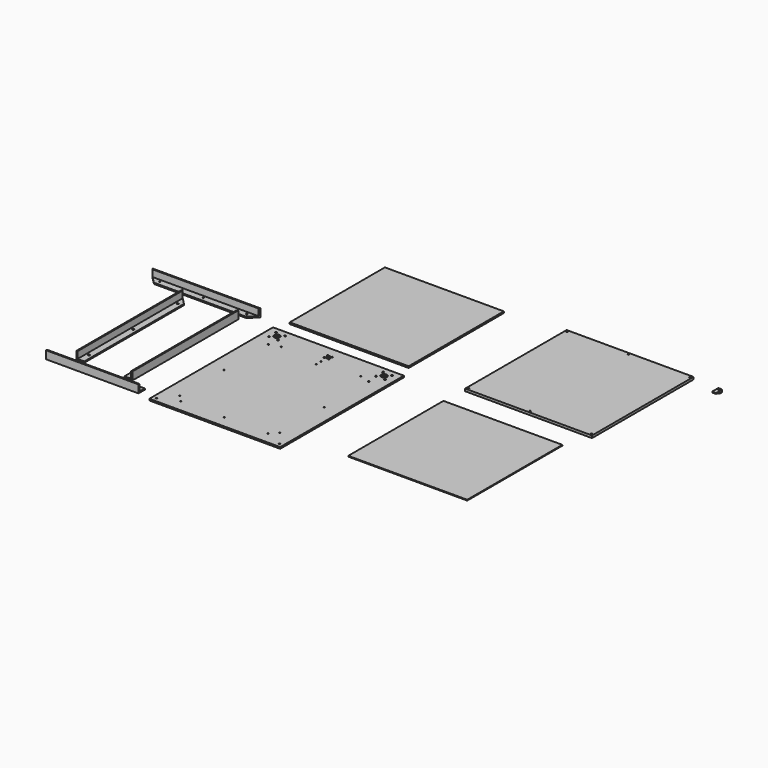
from build123d import *

# Parameters (mm, degrees)
F0_W      = 330
F0_H      = 390
F0_R      = 1.75
F0_R_2    = 1.6
F0_R_3    = 2.25
F0_R_4    = 7.5
F0_R_5    = 5.5
F1_DEPTH  = 4
F2_W      = 300
F2_H      = 300
F3_DEPTH  = 2
F4_W      = 320
F4_H      = 320
F4_R      = 1.75
F5_DEPTH  = 6
F6_W      = 300
F6_H      = 300
F7_DEPTH  = 4
F8_R      = 1.75
F9_DEPTH  = 4
F10_DEPTH = 2
F11_R     = 2
F12_R     = 2.25
F13_DEPTH = 3
F15_DEPTH = 20
F17_R     = 1.75
F18_DEPTH = 3
F20_DEPTH = 20
F21_W     = 233
F21_H     = 17
F21_R     = 2.25
F21_H_2   = 3
F22_DEPTH = 3
F23_DEPTH = 20


with BuildPart() as f1:
    # F0 (on Top) → F1 (new body)
    with BuildSketch(Plane.XY):
        with Locations((315.0072479248, -7.666208148)):
            Rectangle(F0_W, F0_H)
        with Locations((160.0072479248, -192.666208148)):
            Circle(F0_R, mode=Mode.SUBTRACT)
        with Locations((188.5072479248, -155.416208148)):
            Circle(F0_R_2, mode=Mode.SUBTRACT)
        with Locations((205.0072479248, -172.666208148)):
            Circle(F0_R_2, mode=Mode.SUBTRACT)
        with Locations((188.5072479248, -15.416208148)):
            Circle(F0_R_2, mode=Mode.SUBTRACT)
        with Locations((315.0072479248, -172.666208148)):
            Circle(F0_R_2, mode=Mode.SUBTRACT)
        with Locations((425.0072479248, -172.666208148)):
            Circle(F0_R_2, mode=Mode.SUBTRACT)
        with Locations((470.0072479248, -192.666208148)):
            Circle(F0_R, mode=Mode.SUBTRACT)
        with Locations((441.5072479248, -155.416208148)):
            Circle(F0_R_2, mode=Mode.SUBTRACT)
        with Locations((441.5072479248, -15.416208148)):
            Circle(F0_R_2, mode=Mode.SUBTRACT)
        with Locations((188.5072479248, 124.583791852)):
            Circle(F0_R_2, mode=Mode.SUBTRACT)
        with Locations((215.0072479248, 132.333791852)):
            Circle(F0_R_2, mode=Mode.SUBTRACT)
        with Locations((168.6935394258, 151.020083353)):
            Circle(F0_R_3, mode=Mode.SUBTRACT)
        with Locations((180.0072479248, 162.333791852)):
            Circle(F0_R_4, mode=Mode.SUBTRACT)
        with Locations((168.6935394258, 173.647500351)):
            Circle(F0_R_3, mode=Mode.SUBTRACT)
        with Locations((191.3209564238, 151.020083353)):
            Circle(F0_R_3, mode=Mode.SUBTRACT)
        with Locations((191.3209564238, 173.647500351)):
            Circle(F0_R_3, mode=Mode.SUBTRACT)
        with Locations((309.3503936753, 149.6769376025)):
            Circle(F0_R, mode=Mode.SUBTRACT)
        with Locations((309.3503936753, 160.9906461015)):
            Circle(F0_R, mode=Mode.SUBTRACT)
        with Locations((315.0072479248, 117.333791852)):
            Circle(F0_R, mode=Mode.SUBTRACT)
        with Locations((315.0072479248, 132.333791852)):
            Circle(F0_R_2, mode=Mode.SUBTRACT)
        with Locations((320.6641021743, 149.6769376025)):
            Circle(F0_R, mode=Mode.SUBTRACT)
        with Locations((315.0072479248, 155.333791852)):
            Circle(F0_R_5, mode=Mode.SUBTRACT)
        with Locations((320.6641021743, 160.9906461015)):
            Circle(F0_R, mode=Mode.SUBTRACT)
        with Locations((415.0072479248, 132.333791852)):
            Circle(F0_R_2, mode=Mode.SUBTRACT)
        with Locations((441.5072479248, 124.583791852)):
            Circle(F0_R_2, mode=Mode.SUBTRACT)
        with Locations((438.6935394258, 151.020083353)):
            Circle(F0_R_3, mode=Mode.SUBTRACT)
        with Locations((438.6935394258, 173.647500351)):
            Circle(F0_R_3, mode=Mode.SUBTRACT)
        with Locations((450.0072479248, 162.333791852)):
            Circle(F0_R_4, mode=Mode.SUBTRACT)
        with Locations((461.3209564238, 151.020083353)):
            Circle(F0_R_3, mode=Mode.SUBTRACT)
        with Locations((461.3209564238, 173.647500351)):
            Circle(F0_R_3, mode=Mode.SUBTRACT)
    extrude(amount=F1_DEPTH)


with BuildPart() as f3:
    # F2 (on Top) → F3 (new body)
    with BuildSketch(Plane.XY):
        with Locations((755.6870341301, 5.0094813108)):
            Rectangle(F2_W, F2_H)
    extrude(amount=F3_DEPTH)


with BuildPart() as f5:
    # F4 (on Top) → F5 (new body)
    with BuildSketch(Plane.XY):
        with Locations((771.1582446098, 376.6629135609)):
            Rectangle(F4_W, F4_H)
        with Locations((616.1582446098, 221.6629135609)):
            Circle(F4_R, mode=Mode.SUBTRACT)
        with Locations((771.1582446098, 221.6629135609)):
            Circle(F4_R, mode=Mode.SUBTRACT)
        with Locations((926.1582446098, 221.6629135609)):
            Circle(F4_R, mode=Mode.SUBTRACT)
        with Locations((616.1582446098, 531.6629135609)):
            Circle(F4_R, mode=Mode.SUBTRACT)
        with Locations((771.1582446098, 531.6629135609)):
            Circle(F4_R, mode=Mode.SUBTRACT)
        with Locations((926.1582446098, 531.6629135609)):
            Circle(F4_R, mode=Mode.SUBTRACT)
    extrude(amount=F5_DEPTH)


with BuildPart() as f7:
    # F6 (on Top) → F7 (new body)
    with BuildSketch(Plane.XY):
        with Locations((312.3076361418, 374.6542274952)):
            Rectangle(F6_W, F6_H)
    extrude(amount=F7_DEPTH)


with BuildPart() as f9:
    # F8 (on Top) → F9 (new body)
    with BuildSketch(Plane.XY):
        with BuildLine():
            ThreePointArc((994.2579269409, 531.216108799), (999.2579269409, 526.216108799), (1004.2579269409, 531.216108799))
            ThreePointArc((1004.2579269409, 531.216108799), (1002.7934608469, 534.7516427049), (999.2579269409, 536.216108799))
            ThreePointArc((999.2579269409, 536.216108799), (995.722393035, 534.7516427049), (994.2579269409, 531.216108799))
        make_face()
        with Locations((999.2579269409, 531.216108799)):
            Circle(F8_R, mode=Mode.SUBTRACT)
        with BuildLine():
            ThreePointArc((994.2579269409, 531.216108799), (995.722393035, 534.7516427049), (999.2579269409, 536.216108799))
            Line((999.2579269409, 536.216108799), (994.2579269409, 536.216108799))
            Line((994.2579269409, 536.216108799), (994.2579269409, 531.216108799))
        make_face()
        with BuildLine():
            ThreePointArc((999.2579269409, 536.216108799), (1002.7934608469, 534.7516427049), (1004.2579269409, 531.216108799))
            Line((1004.2579269409, 531.216108799), (1004.2579269409, 536.216108799))
            Line((1004.2579269409, 536.216108799), (999.2579269409, 536.216108799))
        make_face()
    extrude(amount=-F9_DEPTH)

    # F8 (on Top) → F10 (join)
    with BuildSketch(Plane.XY):
        with BuildLine():
            ThreePointArc((994.2579269409, 531.216108799), (999.2579269409, 526.216108799), (1004.2579269409, 531.216108799))
            ThreePointArc((1004.2579269409, 531.216108799), (1002.7934608469, 534.7516427049), (999.2579269409, 536.216108799))
            ThreePointArc((999.2579269409, 536.216108799), (995.722393035, 534.7516427049), (994.2579269409, 531.216108799))
        make_face()
        with Locations((999.2579269409, 531.216108799)):
            Circle(F8_R, mode=Mode.SUBTRACT)
        with BuildLine():
            Line((1004.2579269409, 516.216108799), (1004.2579269409, 531.216108799))
            ThreePointArc((1004.2579269409, 531.216108799), (999.2579269409, 526.216108799), (994.2579269409, 531.216108799))
            Line((994.2579269409, 531.216108799), (994.2579269409, 516.216108799))
            Line((994.2579269409, 516.216108799), (1004.2579269409, 516.216108799))
        make_face()
        with BuildLine():
            ThreePointArc((999.2579269409, 536.216108799), (1002.7934608469, 534.7516427049), (1004.2579269409, 531.216108799))
            Line((1004.2579269409, 531.216108799), (1004.2579269409, 536.216108799))
            Line((1004.2579269409, 536.216108799), (999.2579269409, 536.216108799))
        make_face()
        with BuildLine():
            ThreePointArc((994.2579269409, 531.216108799), (995.722393035, 534.7516427049), (999.2579269409, 536.216108799))
            Line((999.2579269409, 536.216108799), (994.2579269409, 536.216108799))
            Line((994.2579269409, 536.216108799), (994.2579269409, 531.216108799))
        make_face()
    extrude(amount=F10_DEPTH)

    # F11
    f11_edges = [f9.edges().sort_by_distance(p)[0] for p in [
        (994.257927, 516.216109, 1),
        (1004.257927, 516.216109, 1),
        (1004.257927, 536.216109, -1),
        (994.257927, 536.216109, -1),
    ]]
    fillet(f11_edges, radius=F11_R)


with BuildPart() as f13:
    # F12 (on Top) → F13 (new body)
    with BuildSketch(Plane.XY):
        Polygon((-50.6583559513, 157.4421931505), (-70.6583559513, 177.4421931505), (-70.6583559513, -157.0578068495), (-50.6583559513, -157.0578068495), align=None)
        with Locations((-60.6583559513, -129.8078068495)):
            Circle(F12_R, mode=Mode.SUBTRACT)
        with Locations((-60.6583559513, 10.1921931505)):
            Circle(F12_R, mode=Mode.SUBTRACT)
        with Locations((-60.6583559513, 150.1921931505)):
            Circle(F12_R, mode=Mode.SUBTRACT)
    extrude(amount=F13_DEPTH)

    # F14 (on face) → F15 (join)
    with BuildSketch(Plane(origin=(0, 0, 0), x_dir=(1, 0, 0), z_dir=(0, 0, -1))):
        Polygon((-70.6583559513, 157.0578068495), (-70.6583559513, -177.4421931505), (-67.6583559513, -174.4421931505), (-67.6583559513, 157.0578068495), align=None)
    extrude(amount=-F15_DEPTH)


with BuildPart() as f16_1:
    # F16: instance of F13
    add(f13.part.mirror(Plane.YZ))


with BuildPart() as f18:
    # F17 (on Top) → F18 (new body)
    with BuildSketch(Plane.XY):
        Polygon((99.5360185672, 211.1520070005), (-173.4639814328, 211.1520070005), (-153.4639814328, 191.1520070005), (79.5360185672, 191.1520070005), align=None)
        with Locations((73.0360185672, 201.1520070005)):
            Circle(F17_R, mode=Mode.SUBTRACT)
        with Locations((-146.9639814328, 201.1520070005)):
            Circle(F17_R, mode=Mode.SUBTRACT)
        with Locations((-36.9639814328, 201.1520070005)):
            Circle(F17_R, mode=Mode.SUBTRACT)
    extrude(amount=F18_DEPTH)

    # F19 (on face) → F20 (join)
    with BuildSketch(Plane(origin=(0, 0, 0), x_dir=(1, 0, 0), z_dir=(0, 0, -1))):
        Polygon((-170.4639814328, -208.1520070005), (-173.4639814328, -211.1520070005), (99.5360185672, -211.1520070005), (96.5360185672, -208.1520070005), align=None)
    extrude(amount=-F20_DEPTH)


with BuildPart() as f22:
    # F21 (on Top) → F22 (new body)
    with BuildSketch(Plane.XY):
        with Locations((-2.172301054, -180.9320459366)):
            Rectangle(F21_W, F21_H)
        with Locations((-102.172301054, -182.4320459366)):
            Circle(F21_R, mode=Mode.SUBTRACT)
        with Locations((-2.172301054, -182.4320459366)):
            Circle(F21_R, mode=Mode.SUBTRACT)
        with Locations((97.827698946, -182.4320459366)):
            Circle(F21_R, mode=Mode.SUBTRACT)
        with Locations((-2.172301054, -190.9320459366)):
            Rectangle(F21_W, F21_H_2)
    extrude(amount=F22_DEPTH)

    # F21 (on Top) → F23 (join)
    with BuildSketch(Plane.XY):
        with Locations((-2.172301054, -190.9320459366)):
            Rectangle(F21_W, F21_H_2)
    extrude(amount=F23_DEPTH)


solid = Compound([f1.part, f3.part, f5.part, f7.part, f9.part, f13.part, f16_1.part, f18.part, f22.part])
